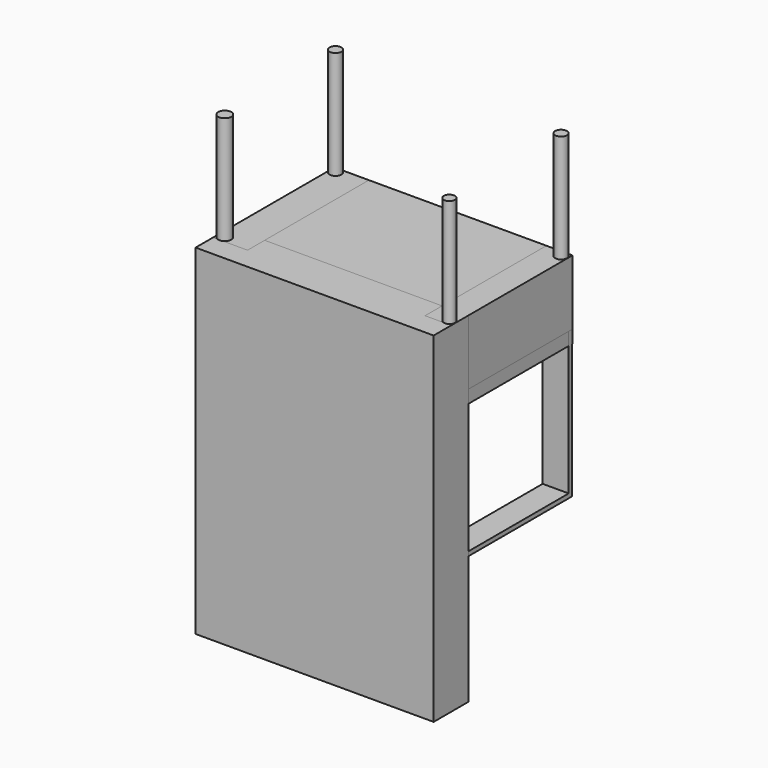
from build123d import *

# Parameters (mm, degrees)
F1_R     = 3.4583395998
F2_DEPTH = 63.5
F1_R_2   = 3.4424914459
F1_R_3   = 3.842894975
F1_R_4   = 3.2518430117
F0_W     = 139.7
F0_H     = 88.9
F0_W_2   = 127
F0_H_2   = 76.1909037828
F3_DEPTH = 38.1
F4_W     = 139.5878493786
F4_H     = 89.1758203506
F5_DEPTH = 45.72
F6_W     = 139.7
F6_H     = 25.4
F7_DEPTH = 199.644
F8_W     = 20.066
F8_H     = 88.9
F9_DEPTH = 124.46
F8_W_2   = 15.2763724327
F8_H_2   = 88.7939184904
F10_T    = -2.54
F10_2_T  = -2.54


with BuildPart() as f2:
    # F1 (on Top) → F2 (new body)
    with BuildSketch(Plane.XY):
        with Locations((-66.3567408919, 40.9597717226)):
            Circle(F1_R)
    extrude(amount=F2_DEPTH)


with BuildPart() as f2b:
    # F1 (on Top) → F2, piece 2 (new body)
    with BuildSketch(Plane.XY):
        with Locations((66.1657899618, 40.7688170671)):
            Circle(F1_R_2)
    extrude(amount=F2_DEPTH)


with BuildPart() as f2c:
    # F1 (on Top) → F2, piece 3 (new body)
    with BuildSketch(Plane.XY):
        with Locations((-65.7838732004, -40.9597717226)):
            Circle(F1_R_3)
    extrude(amount=F2_DEPTH)


with BuildPart() as f2d:
    # F1 (on Top) → F2, piece 4 (new body)
    with BuildSketch(Plane.XY):
        with Locations((66.3567408919, -41.3416847587)):
            Circle(F1_R_4)
    extrude(amount=F2_DEPTH)


with BuildPart() as f3:
    # F0 (on Top) → F3 (new body)
    with BuildSketch(Plane.XY):
        Rectangle(F0_W, F0_H)
        Rectangle(F0_W_2, F0_H_2, mode=Mode.SUBTRACT)
    extrude(amount=-F3_DEPTH)


with BuildPart() as f5:
    # F4 (on Top) → F5 (new body)
    with BuildSketch(Plane.XY):
        Rectangle(F4_W, F4_H)
    extrude(amount=-F5_DEPTH)


with BuildPart() as f7:
    # F6 (on Top) → F7 (new body)
    with BuildSketch(Plane.XY):
        with Locations((0, -44.5879101753)):
            Rectangle(F6_W, F6_H)
    extrude(amount=-F7_DEPTH)


with BuildPart() as f9:
    # F8 (on Top) → F9 (new body)
    with BuildSketch(Plane.XY):
        with Locations((-59.6733279526, 0)):
            Rectangle(F8_W, F8_H)
    extrude(amount=-F9_DEPTH)

    # F10
    f10_openings = [f9.faces().sort_by_distance(p)[0] for p in [
        (-69.706328, 0, -62.23),
        (-49.640328, 0, -62.23),
    ]]
    offset(amount=F10_T, openings=f10_openings)


with BuildPart() as f9b:
    # F8 (on Top) → F9, piece 2 (new body)
    with BuildSketch(Plane.XY):
        with Locations((62.1557384729, 0)):
            Rectangle(F8_W_2, F8_H_2)
    extrude(amount=-F9_DEPTH)

    # F10#2
    f10_2_openings = [f9b.faces().sort_by_distance(p)[0] for p in [
        (69.793925, 0, -62.23),
        (54.517552, 0, -62.23),
    ]]
    offset(amount=F10_2_T, openings=f10_2_openings)


solid = Compound([f2.part, f2b.part, f2c.part, f2d.part, f3.part, f5.part, f7.part, f9.part, f9b.part])
